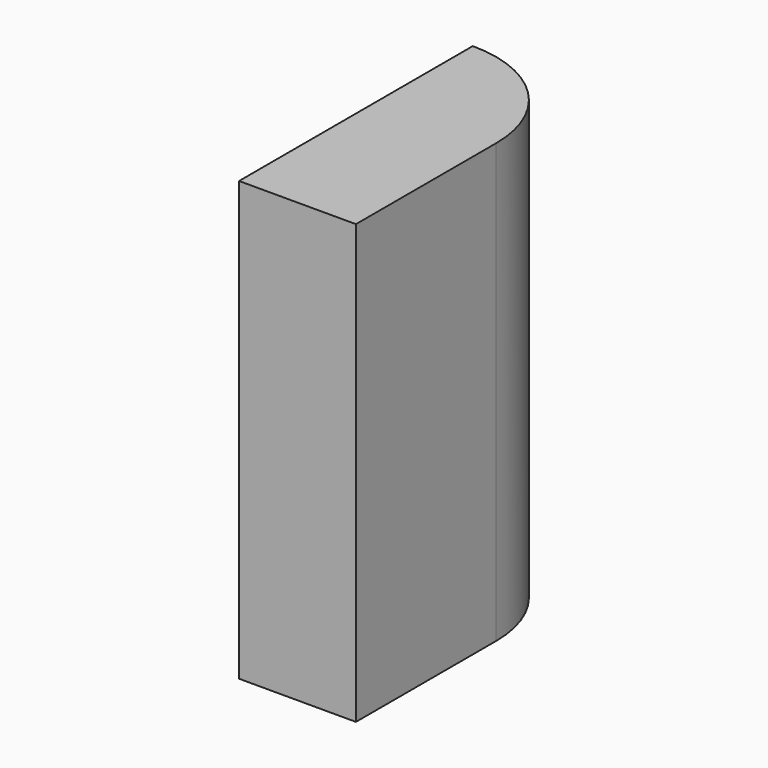
from build123d import *

# Parameters (mm, degrees)
F1_DEPTH = 15


with BuildPart() as f1:
    # F0 (on Top) → F1 (new body)
    with BuildSketch(Plane.XY):
        with BuildLine():
            Line((4, -6), (4, 0))
            ThreePointArc((4, 0), (2.828427, 2.828427), (0, 4))
            Line((0, 4), (0, 0))
            Line((0, 0), (0, -6))
            Line((0, -6), (4, -6))
        make_face()
    extrude(amount=F1_DEPTH)


solid = f1.part
